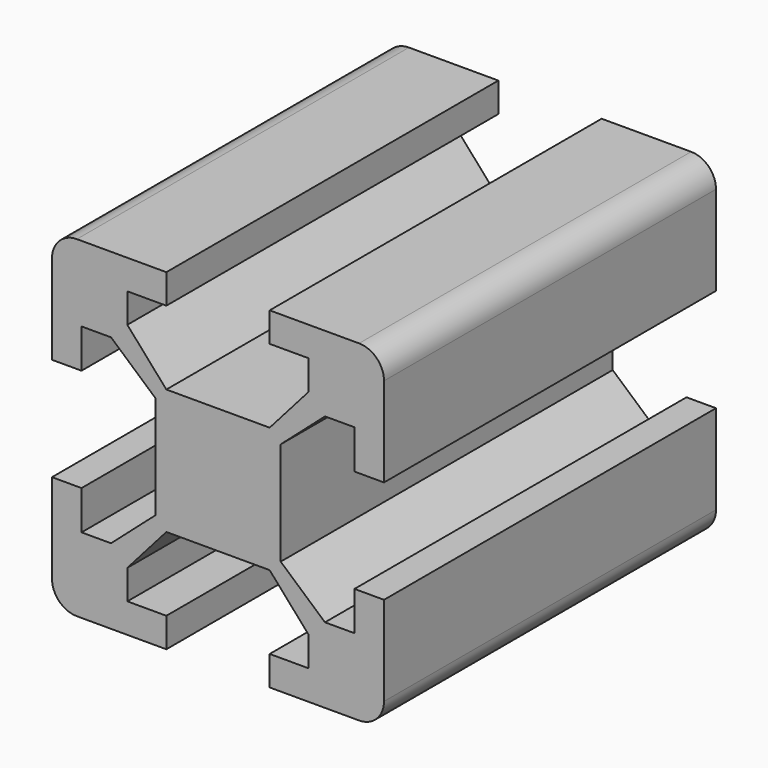
from build123d import *

# Parameters (mm, degrees)
F1_DEPTH = 25
F2_R     = 1.5


with BuildPart() as f1:
    # F0 (on Front) → F1 (new body)
    with BuildSketch(Plane.XZ):
        Polygon((10, 3.1115), (10, 10), (3.1115, 10), (3.1115, 8.222), (5.461, 8.222), (5.461, 6.444), (3.1115, 3.777), (0, 3.777), (-3.1115, 3.777), (-5.461, 6.444), (-5.461, 8.222), (-3.1115, 8.222), (-3.1115, 10), (-10, 10), (-10, 3.1115), (-8.222, 3.1115), (-8.222, 5.461), (-6.444, 5.461), (-3.777, 3.1115), (-3.777, 0), (-3.777, -3.1115), (-6.444, -5.461), (-8.222, -5.461), (-8.222, -3.1115), (-10, -3.1115), (-10, -10), (-3.1115, -10), (-3.1115, -8.222), (-5.461, -8.222), (-5.461, -6.444), (-3.1115, -3.777), (0, -3.777), (3.1115, -3.777), (5.461, -6.444), (5.461, -8.222), (3.1115, -8.222), (3.1115, -10), (10, -10), (10, -3.1115), (8.222, -3.1115), (8.222, -5.461), (6.444, -5.461), (3.777, -3.1115), (3.777, 0), (3.777, 3.1115), (6.444, 5.461), (8.222, 5.461), (8.222, 3.1115), align=None)
    extrude(amount=F1_DEPTH)

    # F2
    f2_edges = [f1.edges().sort_by_distance(p)[0] for p in [
        (-10, -12.5, 10),
        (10, -12.5, 10),
        (10, -12.5, -10),
        (-10, -12.5, -10),
    ]]
    fillet(f2_edges, radius=F2_R)


solid = f1.part
